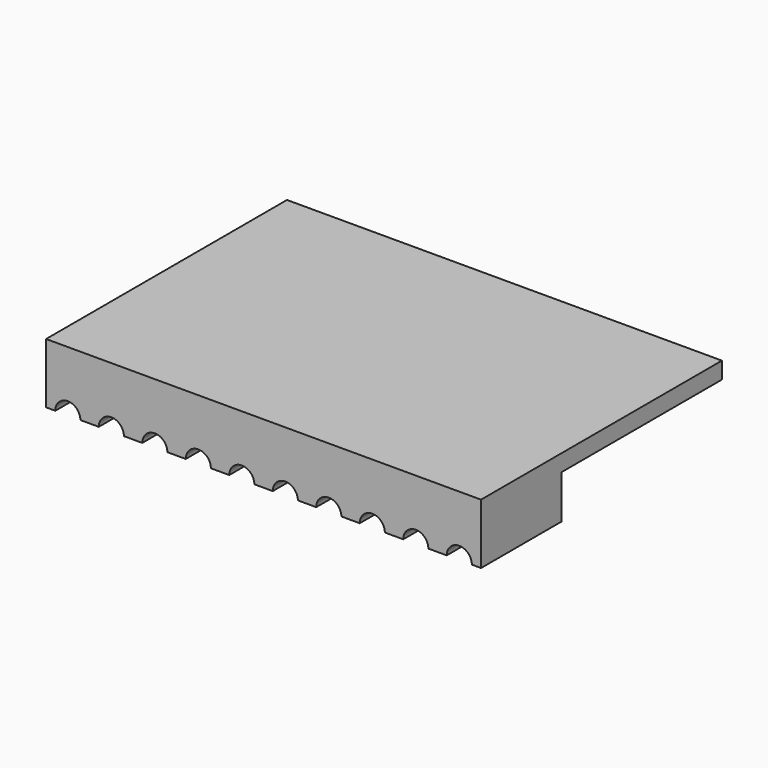
from build123d import *

# Parameters (mm, degrees)
BOX020_W          = 30
BOX020_H          = 20
BOX020_DEPTH      = 9.2
CYLINDER004_R     = 0.75
CYLINDER004_DEPTH = 7
ARRAY004_X_COUNT  = 10
ARRAY004_X_PITCH  = 2.6
ARRAY004_Y_COUNT  = 2
ARRAY004_Y_PITCH  = 1
BOX009_W          = 26
BOX009_H          = 12
BOX009_DEPTH      = 5.2
BOX008_W          = 26
BOX008_H          = 18
BOX008_DEPTH      = 7.2


with BuildPart() as obj1:
    # Box020 → Box020 (new body)
    with BuildSketch(Plane(origin=(-1, -1, -5.6), x_dir=(1, 0, 0), z_dir=(0, 0, 1))):
        with Locations((15, 10)):
            Rectangle(BOX020_W, BOX020_H)
    extrude(amount=BOX020_DEPTH)


with BuildPart() as array004:
    # Cylinder004 → Cylinder004 (new body)
    with BuildSketch(Plane(origin=(1.3, -1, 3.6), x_dir=(1, 0, 0), z_dir=(0, 1, 0))):
        Circle(CYLINDER004_R)
    extrude(amount=CYLINDER004_DEPTH)

    # Array004 X: Array004 ×10


with BuildPart() as array004_1:
    add(array004.part)
    with Locations(*[(i * ARRAY004_X_PITCH, 0, 0) for i in range(1, ARRAY004_X_COUNT)]):
        add(array004.part)

    # Array004 Y: Array004 ×2


with BuildPart() as array004_2:
    add(array004_1.part)
    with Locations(*[(0, i * ARRAY004_Y_PITCH, 0) for i in range(1, ARRAY004_Y_COUNT)]):
        add(array004_1.part)


with BuildPart() as cube_10_base006:
    # Box009 → Box009 (new body)
    with BuildSketch(Plane(origin=(0, 6, 1), x_dir=(1, 0, 0), z_dir=(0, 0, 1))):
        with Locations((13, 6)):
            Rectangle(BOX009_W, BOX009_H)
    extrude(amount=BOX009_DEPTH)


with BuildPart() as obj2:
    # Box008 → Box008 (new body)
    with BuildSketch(Plane.XY):
        with Locations((13, 9)):
            Rectangle(BOX008_W, BOX008_H)
    extrude(amount=BOX008_DEPTH)

    # Cut022: cut cube_10_base006
    add(cube_10_base006.part, mode=Mode.SUBTRACT)

    # Cut023: cut Array004
    add(array004_2.part, mode=Mode.SUBTRACT)

    # Cut026: cut obj1
    add(obj1.part, mode=Mode.SUBTRACT)


solid = obj2.part
